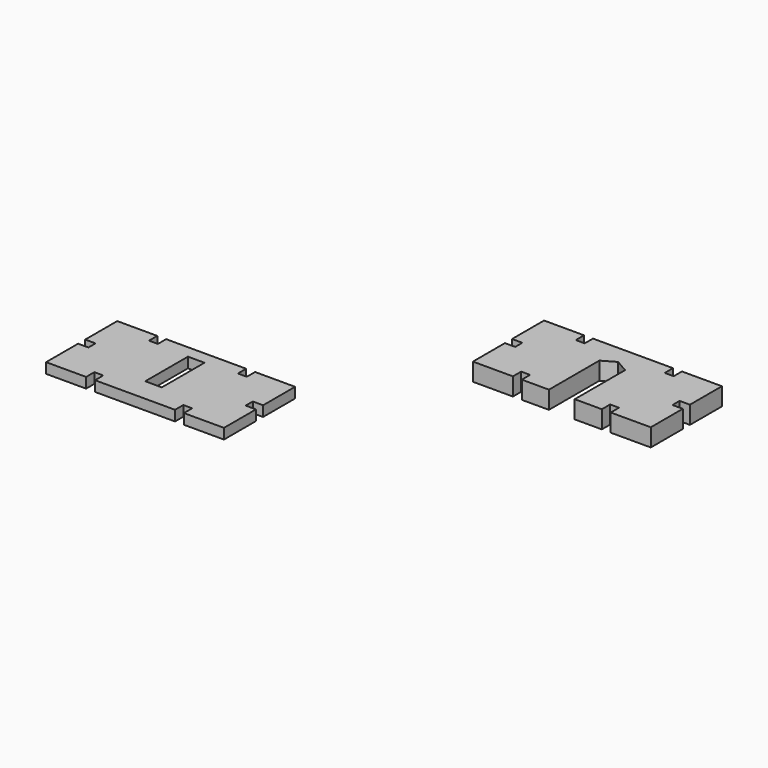
from build123d import *

# Parameters (mm, degrees)
F2_DEPTH = 10
F3_W     = 9.3
F3_H     = 30
F4_DEPTH = 5.8


with BuildPart() as f2:
    # F1 (on Top) → F2 (new body)
    with BuildSketch(Plane.XY):
        Polygon((0, 22.5), (0, 0), (22.5, 0), (22.5, 5.8), (27.5, 5.8), (27.5, 0), (42.75, 0), (42.75, 35.3950038552), (50, 39.5807933069), (57.25, 35.3950038552), (57.25, 0), (72.5, 0), (72.5, 5.8), (77.5, 5.8), (77.5, 0), (100, 0), (100, 22.5), (94.2, 22.5), (94.2, 27.5), (100, 27.5), (100, 50), (77.5, 50), (77.5, 44.2), (72.5, 44.2), (72.5, 50), (27.5, 50), (27.5, 44.2), (22.5, 44.2), (22.5, 50), (0, 50), (0, 27.5), (5.8, 27.5), (5.8, 22.5), align=None)
    extrude(amount=F2_DEPTH)


with BuildPart() as f4:
    # F3 (on Top) → F4 (new body)
    with BuildSketch(Plane.XY):
        Polygon((-151.0126439095, -88.6723635435), (-151.0126439095, -111.1723635435), (-128.5126439095, -111.1723635435), (-128.5126439095, -105.3723635435), (-123.5126439095, -105.3723635435), (-123.5126439095, -111.1723635435), (-113.4568698463, -111.1723635435), (-88.5684179726, -111.1723635435), (-78.5126439095, -111.1723635435), (-78.5126439095, -105.3723635435), (-73.5126439095, -105.3723635435), (-73.5126439095, -111.1723635435), (-51.0126439095, -111.1723635435), (-51.0126439095, -88.6723635435), (-56.8126439095, -88.6723635435), (-56.8126439095, -83.6723635435), (-51.0126439095, -83.6723635435), (-51.0126439095, -61.1723635435), (-73.5126439095, -61.1723635435), (-73.5126439095, -66.9723635435), (-78.5126439095, -66.9723635435), (-78.5126439095, -61.1723635435), (-123.5126439095, -61.1723635435), (-123.5126439095, -66.9723635435), (-128.5126439095, -66.9723635435), (-128.5126439095, -61.1723635435), (-151.0126439095, -61.1723635435), (-151.0126439095, -83.6723635435), (-145.2126439095, -83.6723635435), (-145.2126439095, -88.6723635435), align=None)
        with Locations((-101.0126439095, -83.1723635435)):
            Rectangle(F3_W, F3_H, mode=Mode.SUBTRACT)
    extrude(amount=F4_DEPTH)


solid = Compound([f2.part, f4.part])
